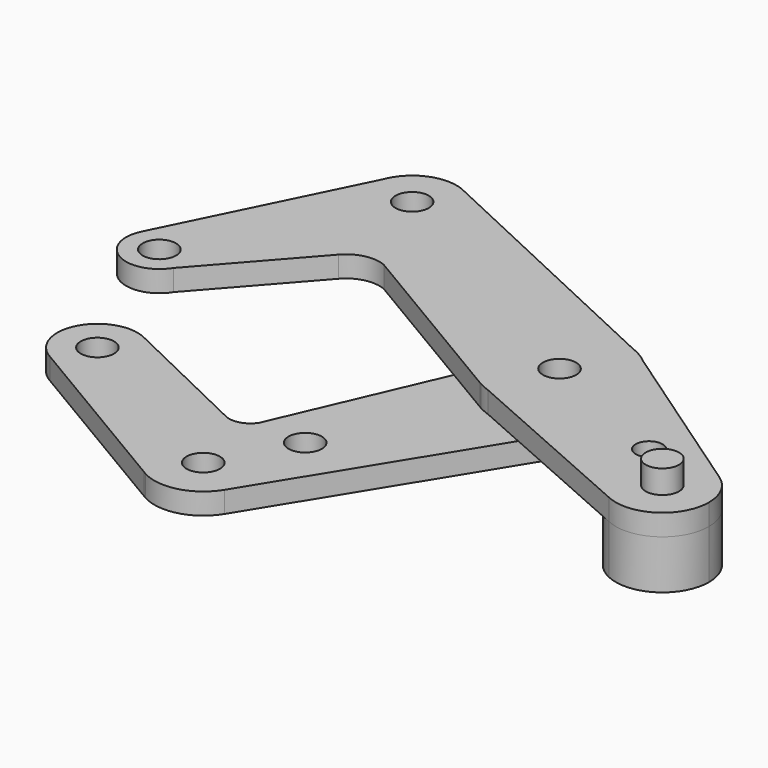
from build123d import *

# Parameters (mm, degrees)
F0_R     = 3.9751
F2_DEPTH = 5.08
F1_R     = 3.9751
F3_DEPTH = 5.08
F4_DEPTH = 11.684
F5_R     = 3.9751
F6_DEPTH = 5.588


with BuildPart() as f2:
    # F0 (on Top) → F2 (new body)
    with BuildSketch(Plane.XY):
        with BuildLine():
            ThreePointArc((13.8632166565, -7.7347817639), (15.3638242216, -3.99606435), (15.875, 0))
            ThreePointArc((15.875, 0), (14.3858140768, 6.7129709032), (10.1976483972, 12.1664946541))
            Line((10.1976483972, 12.1664946541), (7.6820147458, 13.8925258483))
            Line((7.6820147458, 13.8925258483), (5.7169083245, 14.809881303))
            ThreePointArc((5.7169083245, 14.809881303), (-5.3948904745, 14.9301969769), (-13.8632166565, 7.7347817639))
            Line((-13.8632166565, 7.7347817639), (-3.4713494508, 1.9367893537))
            ThreePointArc((-3.4713494508, 1.9367893537), (1.0006145132, 3.8471015851), (3.9751, 0))
            ThreePointArc((3.9751, 0), (3.8471015851, -1.0006145132), (3.4713494508, -1.9367893537))
            Line((3.4713494508, -1.9367893537), (13.8632166565, -7.7347817639))
        make_face()
        with BuildLine():
            ThreePointArc((10.1976483972, 12.1664946541), (14.3858140768, 6.7129709032), (15.875, 0))
            ThreePointArc((15.875, 0), (15.3638242216, -3.99606435), (13.8632166565, -7.7347817639))
            Line((13.8632166565, -7.7347817639), (31.7734974812, -17.7275646038))
            Line((31.7734974812, -17.7275646038), (34.6580416412, -19.3369544098))
            ThreePointArc((34.6580416412, -19.3369544098), (41.8260256064, -13.9321056286), (50.6492670067, -15.5882444108))
            Line((50.6492670067, -15.5882444108), (10.1976483972, 12.1664946541))
        make_face()
        with BuildLine():
            ThreePointArc((36.5392641606, -14.9291966376), (34.9573662508, -17.6925006073), (31.7734974812, -17.7275646038))
            ThreePointArc((31.7734974812, -17.7275646038), (31.7122467013, -12.1658926679), (36.5392641606, -14.9291966376))
        make_face(mode=Mode.SUBTRACT)
        with BuildLine():
            Line((7.6820147458, 13.8925258483), (10.1976483972, 12.1664946541))
            ThreePointArc((10.1976483972, 12.1664946541), (8.9813910085, 13.0900817626), (7.6820147458, 13.8925258483))
        make_face()
        with BuildLine():
            Line((31.7734974812, -17.7275646038), (13.8632166565, -7.7347817639))
            ThreePointArc((13.8632166565, -7.7347817639), (5.6982296892, -14.8170780996), (-5.1082641413, -15.0306773787))
            Line((-5.1082641413, -15.0306773787), (39.7328392371, -34.8535692773))
            ThreePointArc((39.7328392371, -34.8535692773), (33.8003278503, -28.2056528245), (34.6580416412, -19.3369544098))
            Line((34.6580416412, -19.3369544098), (31.7734974812, -17.7275646038))
        make_face()
        with BuildLine():
            ThreePointArc((-5.1082641413, -15.0306773787), (5.6982296892, -14.8170780996), (13.8632166565, -7.7347817639))
            Line((13.8632166565, -7.7347817639), (3.4713494508, -1.9367893537))
            ThreePointArc((3.4713494508, -1.9367893537), (-1.9367893537, -3.4713494508), (-3.4713494508, 1.9367893537))
            Line((-3.4713494508, 1.9367893537), (-13.8632166565, 7.7347817639))
            ThreePointArc((-13.8632166565, 7.7347817639), (-15.3294442901, -4.1259862767), (-8.1078440126, -13.648387834))
            ThreePointArc((-8.1078440126, -13.648387834), (-7.8941969638, -13.7730635407), (-7.6786332134, -13.894395164))
            Line((-7.6786332134, -13.894395164), (-5.1082641413, -15.0306773787))
        make_face()
        with BuildLine():
            Line((5.7169083245, 14.809881303), (7.6820147458, 13.8925258483))
            ThreePointArc((7.6820147458, 13.8925258483), (6.7151448323, 14.3847994383), (5.7169083245, 14.809881303))
        make_face()
        with BuildLine():
            ThreePointArc((55.4747933007, -24.7513016446), (54.1946798767, -19.573287501), (50.6492670067, -15.5882444108))
            ThreePointArc((50.6492670067, -15.5882444108), (41.8260256064, -13.9321056286), (34.6580416412, -19.3369544098))
            ThreePointArc((34.6580416412, -19.3369544098), (33.8003278503, -28.2056528245), (39.7328392371, -34.8535692773))
            ThreePointArc((39.7328392371, -34.8535692773), (50.3640783672, -34.103639976), (55.4747933007, -24.7513016446))
        make_face()
        with BuildLine():
            ThreePointArc((-7.6786332134, -13.894395164), (-6.4186424038, -14.519526669), (-5.1082641413, -15.0306773787))
            Line((-5.1082641413, -15.0306773787), (-7.6786332134, -13.894395164))
        make_face()
        with BuildLine():
            ThreePointArc((-13.8632166565, 7.7347817639), (-5.3948904745, 14.9301969769), (5.7169083245, 14.809881303))
            Line((5.7169083245, 14.809881303), (-58.4596772524, 44.7689411315))
            ThreePointArc((-58.4596772524, 44.7689411315), (-54.4137482289, 40.8693424861), (-52.9260797167, 35.4505553842))
            ThreePointArc((-52.9260797167, 35.4505553842), (-53.26780974, 32.7791158887), (-54.2709923631, 30.2797173587))
            Line((-54.2709923631, 30.2797173587), (-13.8632166565, 7.7347817639))
        make_face()
        with BuildLine():
            Line((-7.7376268055, -13.8683158861), (-7.6786332134, -13.894395164))
            ThreePointArc((-7.6786332134, -13.894395164), (-7.8941969638, -13.7730635407), (-8.1078440126, -13.648387834))
            Line((-8.1078440126, -13.648387834), (-7.7376268055, -13.8683158861))
        make_face()
        with BuildLine():
            ThreePointArc((-8.1078440126, -13.648387834), (-15.3294442901, -4.1259862767), (-13.8632166565, 7.7347817639))
            Line((-13.8632166565, 7.7347817639), (-54.2709923631, 30.2797173587))
            ThreePointArc((-54.2709923631, 30.2797173587), (-60.6418041852, 25.2408931053), (-68.7096352252, 26.1827505475))
            Line((-68.7096352252, 26.1827505475), (-84.4716426501, -2.0678362876))
            ThreePointArc((-84.4716426501, -2.0678362876), (-81.4942792861, -4.9803345698), (-80.4015335321, -8.9994446158))
            ThreePointArc((-80.4015335321, -8.9994446158), (-80.7066188645, -11.1789290943), (-81.5984223741, -13.1908724713))
            Line((-81.5984223741, -13.1908724713), (-60.9219558537, 10.2652302012))
            ThreePointArc((-60.9219558537, 10.2652302012), (-56.6827002782, 12.7689617881), (-51.7820296359, 12.2963235016))
            Line((-51.7820296359, 12.2963235016), (-8.1078440126, -13.648387834))
        make_face()
        with BuildLine():
            Line((-61.636361774, 38.9408504234), (-58.4596772524, 44.7689411315))
            ThreePointArc((-58.4596772524, 44.7689411315), (-66.2429409396, 45.7129809751), (-72.5503531982, 41.0560554387))
            Line((-72.5503531982, 41.0560554387), (-73.4777276016, 39.1717695464))
            ThreePointArc((-73.4777276016, 39.1717695464), (-73.5014740047, 31.7933921044), (-68.7096352252, 26.1827505475))
            Line((-68.7096352252, 26.1827505475), (-65.4755865534, 31.9792059334))
            ThreePointArc((-65.4755865534, 31.9792059334), (-67.0196618264, 37.3701911466), (-61.636361774, 38.9408504234))
        make_face()
        with BuildLine():
            ThreePointArc((-52.9260797167, 35.4505553842), (-54.4137482289, 40.8693424861), (-58.4596772524, 44.7689411315))
            Line((-58.4596772524, 44.7689411315), (-61.636361774, 38.9408504234))
            ThreePointArc((-61.636361774, 38.9408504234), (-60.1209183933, 37.4802165565), (-59.5636971997, 35.4505553842))
            ThreePointArc((-59.5636971997, 35.4505553842), (-61.5260268887, 32.0227024578), (-65.4755865534, 31.9792059334))
            Line((-65.4755865534, 31.9792059334), (-68.7096352252, 26.1827505475))
            ThreePointArc((-68.7096352252, 26.1827505475), (-60.6418041852, 25.2408931053), (-54.2709923631, 30.2797173587))
            ThreePointArc((-54.2709923631, 30.2797173587), (-53.26780974, 32.7791158887), (-52.9260797167, 35.4505553842))
        make_face()
        with BuildLine():
            Line((-73.4777276016, 39.1717695464), (-72.5503531982, 41.0560554387))
            ThreePointArc((-72.5503531982, 41.0560554387), (-73.0607648028, 40.1369084802), (-73.4777276016, 39.1717695464))
        make_face()
        with BuildLine():
            Line((-84.4716426501, -2.0678362876), (-68.7096352252, 26.1827505475))
            ThreePointArc((-68.7096352252, 26.1827505475), (-73.5014740047, 31.7933921044), (-73.4777276016, 39.1717695464))
            Line((-73.4777276016, 39.1717695464), (-95.4607361469, -5.4944113612))
            ThreePointArc((-95.4607361469, -5.4944113612), (-90.7018687776, -1.4217856203), (-84.4716426501, -2.0678362876))
        make_face()
        with BuildLine():
            ThreePointArc((-80.4015335321, -8.9994446158), (-81.4942792861, -4.9803345698), (-84.4716426501, -2.0678362876))
            ThreePointArc((-84.4716426501, -2.0678362876), (-90.7018687776, -1.4217856203), (-95.4607361469, -5.4944113612))
            ThreePointArc((-95.4607361469, -5.4944113612), (-92.1919786497, -15.9390930342), (-81.5984223741, -13.1908724713))
            ThreePointArc((-81.5984223741, -13.1908724713), (-80.7066188645, -11.1789290943), (-80.4015335321, -8.9994446158))
        make_face()
        with Locations((-88.3390335321, -8.9994446158)):
            Circle(F0_R, mode=Mode.SUBTRACT)
    extrude(amount=F2_DEPTH)

    # F1 (on Top) → F3 (join)
    with BuildSketch(Plane.XY):
        with BuildLine():
            ThreePointArc((13.783733636, -7.5792129349), (15.2357338896, -3.9125687862), (15.7300915973, 0))
            ThreePointArc((15.7300915973, 0), (3.9542752536, 15.2249626889), (-13.7420176329, 7.6545890181))
            Line((-13.7420176329, 7.6545890181), (-15.0017707782, 4.7310310903))
            ThreePointArc((-15.0017707782, 4.7310310903), (-6.8759912191, -14.1476685859), (12.9887925768, -8.8728264413))
            Line((12.9887925768, -8.8728264413), (13.783733636, -7.5792129349))
        make_face()
        with BuildLine():
            Line((-15.0017707782, 4.7310310903), (-13.7420176329, 7.6545890181))
            ThreePointArc((-13.7420176329, 7.6545890181), (-14.4460423921, 6.2247603058), (-15.0017707782, 4.7310310903))
        make_face()
        with BuildLine():
            ThreePointArc((12.9887925768, -8.8728264413), (13.4018804251, -8.2356167183), (13.783733636, -7.5792129349))
            Line((13.783733636, -7.5792129349), (12.9887925768, -8.8728264413))
        make_face()
        with BuildLine():
            ThreePointArc((12.9887925768, -8.8728264413), (-6.8759912191, -14.1476685859), (-15.0017707782, 4.7310310903))
            Line((-15.0017707782, 4.7310310903), (-36.1635312438, -44.3798862398))
            ThreePointArc((-36.1635312438, -44.3798862398), (-39.06045855, -46.5553430524), (-42.6694117486, -46.2387092412))
            Line((-42.6694117486, -46.2387092412), (-74.1634497839, -31.0848952742))
            ThreePointArc((-74.1634497839, -31.0848952742), (-70.4857810686, -34.6070314802), (-69.1324393881, -39.5161206961))
            ThreePointArc((-69.1324393881, -39.5161206961), (-73.803595504, -47.7430243474), (-83.2619196558, -47.947346118))
            Line((-83.2619196558, -47.947346118), (-40.6218787266, -73.2700041298))
            ThreePointArc((-40.6218787266, -73.2700041298), (-39.8197245124, -53.2524813805), (-22.6053981954, -63.5))
            ThreePointArc((-22.6053981954, -63.5), (-23.0450371975, -66.6712321227), (-24.3307934072, -69.6032666718))
            Line((-24.3307934072, -69.6032666718), (12.9887925768, -8.8728264413))
        make_face()
        with Locations((-24.4568177487, -45.3265101594)):
            Circle(F1_R, mode=Mode.SUBTRACT)
        with BuildLine():
            ThreePointArc((-39.7982146858, -73.7591538203), (-31.2378131903, -74.7579963289), (-24.3307934072, -69.6032666718))
            ThreePointArc((-24.3307934072, -69.6032666718), (-23.0450371975, -66.6712321227), (-22.6053981954, -63.5))
            ThreePointArc((-22.6053981954, -63.5), (-39.8197245124, -53.2524813805), (-40.6218787266, -73.2700041298))
            Line((-40.6218787266, -73.2700041298), (-39.7982146858, -73.7591538203))
        make_face()
        with Locations((-34.2626847198, -63.5)):
            Circle(F1_R, mode=Mode.SUBTRACT)
        with BuildLine():
            ThreePointArc((-40.6218787266, -73.2700041298), (-40.215073438, -73.5230433333), (-39.7982146858, -73.7591538203))
            Line((-39.7982146858, -73.7591538203), (-40.6218787266, -73.2700041298))
        make_face()
        with BuildLine():
            ThreePointArc((-69.1324393881, -39.5161206961), (-70.4857810686, -34.6070314802), (-74.1634497839, -31.0848952742))
            ThreePointArc((-74.1634497839, -31.0848952742), (-87.1439101417, -34.9668857602), (-83.2619196558, -47.947346118))
            ThreePointArc((-83.2619196558, -47.947346118), (-73.803595504, -47.7430243474), (-69.1324393881, -39.5161206961))
        make_face()
        with Locations((-78.7126847198, -39.5161206961)):
            Circle(F1_R, mode=Mode.SUBTRACT)
    extrude(amount=-F3_DEPTH)

    # F0 (on Top) → F4 (join)
    with BuildSketch(Plane.XY):
        with BuildLine():
            ThreePointArc((55.4747933007, -24.7513016446), (54.1946798767, -19.573287501), (50.6492670067, -15.5882444108))
            ThreePointArc((50.6492670067, -15.5882444108), (41.8260256064, -13.9321056286), (34.6580416412, -19.3369544098))
            ThreePointArc((34.6580416412, -19.3369544098), (33.8003278503, -28.2056528245), (39.7328392371, -34.8535692773))
            ThreePointArc((39.7328392371, -34.8535692773), (50.3640783672, -34.103639976), (55.4747933007, -24.7513016446))
        make_face()
    extrude(amount=-F4_DEPTH)

    # F5 (on face) → F6 (join)
    with BuildSketch(Plane.XY.offset(5.08)):
        with Locations((44.3622933007, -24.7513016446)):
            Circle(F5_R)
    extrude(amount=F6_DEPTH)


solid = f2.part
